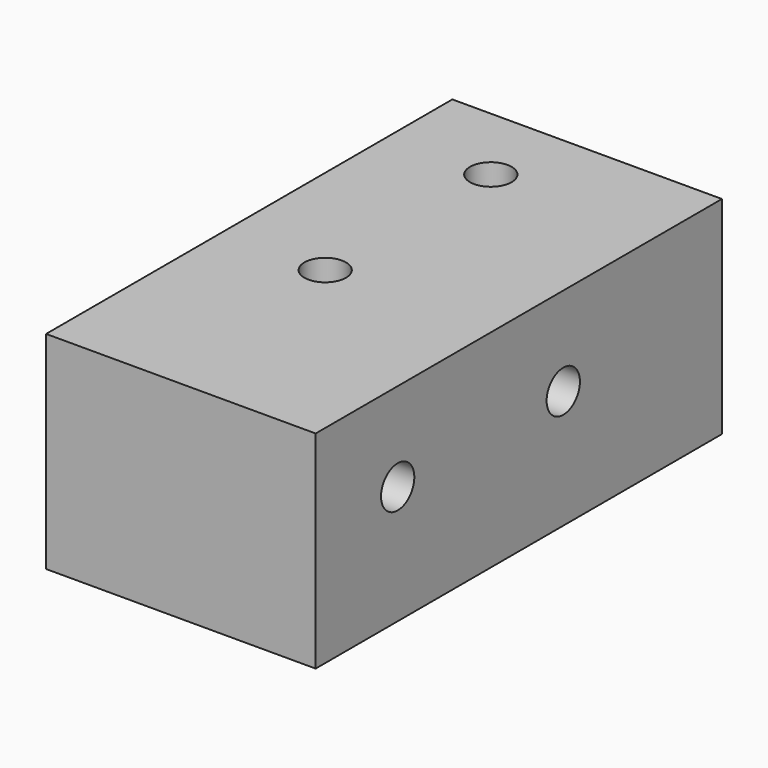
from build123d import *

# Parameters (mm, degrees)
F0_W     = 33.077959
F0_H     = 62.316516
F1_DEPTH = 25.4
F4_D     = 5.1054
F5_D     = 5.1054


with BuildPart() as f1:
    # F0 (on Top) → F1 (new body)
    with BuildSketch(Plane.XY):
        with Locations((-10.229463, -11.399078)):
            Rectangle(F0_W, F0_H)
    extrude(amount=F1_DEPTH)

    # F4 (through all)
    with Locations(Plane.YZ.offset(6.309517)):
        with Locations((-29.974079, 14.525045), (-4.574079, 14.525045)):
            Hole(F4_D / 2)

    # F5 (through all)
    with Locations(Plane.XY.offset(25.4)):
        with Locations((-14.157081, 9.891412), (-14.157081, -15.508588)):
            Hole(F5_D / 2)


solid = f1.part
